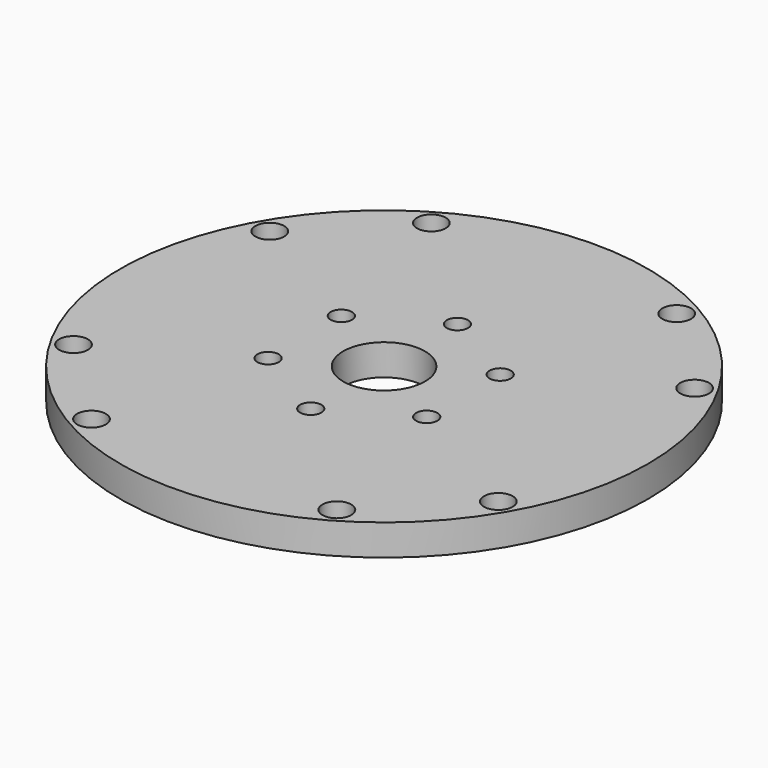
from build123d import *

# Parameters (mm, degrees)
F0_R     = 27.051
F1_DEPTH = 3.175
F4_D     = 2.9464
F5_D     = 2.1844
F7_D     = 8.382


with BuildPart() as f1:
    # F0 (on Top) → F1 (new body)
    with BuildSketch(Plane.XY):
        Circle(F0_R)
    extrude(amount=F1_DEPTH)

    # F4 (through all)
    with Locations(Plane.XY.offset(3.175)):
        with Locations((12.573, 21.7678), (21.7678, 12.573), (21.7678, -12.573), (12.573, -21.7678), (-12.573, -21.7678), (-12.573, 21.7678), (-21.7678, 12.573), (-21.7678, -12.573)):
            Hole(F4_D / 2)

    # F5 (through all)
    with Locations(Plane.XY.offset(3.175)):
        with Locations((8.128, -4.699), (8.1389067448, 4.699), (0.0054533724, 9.388554482), (-8.1389067448, 4.699), (-8.1334533724, -4.689554482), (0, -9.398)):
            Hole(F5_D / 2)

    # F7 (through all)
    with Locations(Plane.XY.offset(3.175)):
        with Locations((0, 0)):
            Hole(F7_D / 2)


solid = f1.part
